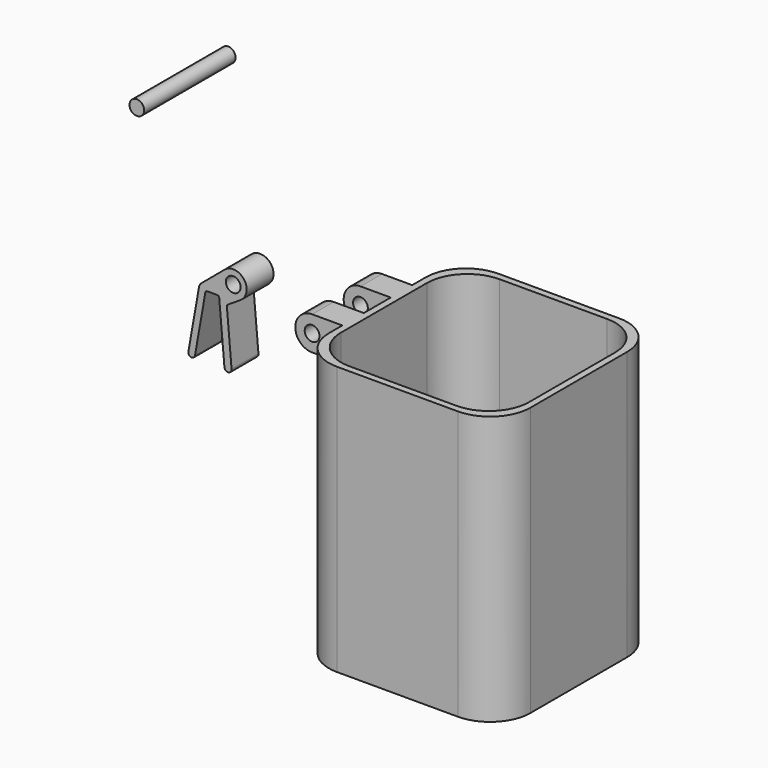
from build123d import *

# Parameters (mm, degrees)
F0_R      = 2.794
F1_DEPTH  = 12.7
F3_DEPTH  = 76.2
F4_T      = -2.54
F5_R      = 15.24
F6_R      = 15.24
F7_W      = 10.16
F7_H      = 12.7
F8_DEPTH  = 17.78
F10_DEPTH = 33.02
F9_R      = 2.794
F11_DEPTH = 33.02
F12_R     = 2.7813
F13_DEPTH = 43.18


with BuildPart() as f1:
    # F0 (on Front) → F1 (new body)
    with BuildSketch(Plane.XZ):
        with BuildLine():
            Line((-52.9557178239, -19.9272039703), (-56.9962829072, -42.842387268))
            ThreePointArc((-56.9962829072, -42.842387268), (-55.9661104361, -44.3136260292), (-54.4948716749, -43.2834535581))
            Line((-54.4948716749, -43.2834535581), (-50.5779905068, -21.0697165999))
            ThreePointArc((-50.5779905068, -21.0697165999), (-50.2876675436, -20.566862477), (-49.7420388513, -20.3682698741))
            Line((-49.7420388513, -20.3682698741), (-46.1659254268, -20.3682698741))
            ThreePointArc((-46.1659254268, -20.3682698741), (-45.5924523294, -20.5912813649), (-45.3203079908, -21.143135492))
            Line((-45.3203079908, -21.143135492), (-43.3602964284, -43.546170164))
            ThreePointArc((-43.3602964284, -43.546170164), (-41.8919443993, -44.7782638101), (-40.6598507532, -43.309911781))
            Line((-40.6598507532, -43.309911781), (-42.4765913108, -22.5444721875))
            Line((-42.4765913108, -22.5444721875), (-37.2936406402, -19.2184539172))
            ThreePointArc((-37.2936406402, -19.2184539172), (-35.9454842194, -11.9324491853), (-43.3026181586, -11.0515570864))
            Line((-43.3026181586, -11.0515570864), (-52.0869866599, -18.422517456))
            ThreePointArc((-52.0869866599, -18.422517456), (-52.6540106569, -19.0982703415), (-52.9557178239, -19.9272039703))
        make_face()
        with Locations((-40.0372571014, -14.9430628575)):
            Circle(F0_R, mode=Mode.SUBTRACT)
    extrude(amount=F1_DEPTH)


with BuildPart() as f3:
    # F2 (on Front) → F3 (new body)
    with BuildSketch(Plane.XZ):
        Polygon((34.7325472392, 7.2066777061), (34.7325472392, -88.8053222939), (110.9325472392, -88.8053222939), (110.9325472392, 12.7946777061), (34.7325472392, 12.7946777061), align=None)
    extrude(amount=F3_DEPTH)

    # F4
    f4_openings = [f3.faces().sort_by_distance(p)[0] for p in [
        (72.832547, -38.1, 12.794678),
    ]]
    offset(amount=F4_T, openings=f4_openings)

    # F5
    f5_edges = [f3.edges().sort_by_distance(p)[0] for p in [
        (37.272547, -2.54, -36.735322),
        (108.392547, -2.54, -36.735322),
        (37.272547, -73.66, -36.735322),
        (108.392547, -73.66, -36.735322),
    ]]
    fillet(f5_edges, radius=F5_R)

    # F6
    f6_edges = [f3.edges().sort_by_distance(p)[0] for p in [
        (110.932547, 0, -38.005322),
        (110.932547, -76.2, -38.005322),
        (34.732547, 0, -38.005322),
        (34.732547, -76.2, -38.005322),
    ]]
    fillet(f6_edges, radius=F6_R)

    # F7 (on face) → F8 (join)
    with BuildSketch(Plane(origin=(34.7325472392, 0, 0), x_dir=(0, -1, 0), z_dir=(-1, 0, 0))):
        with Locations((26.67, 6.4446777061)):
            Rectangle(F7_W, F7_H)
        with Locations((49.53, 6.4446777061)):
            Rectangle(F7_W, F7_H)
    extrude(amount=F8_DEPTH)

    # F9 (on face) → F10 (cut)
    with BuildSketch(Plane.XZ.offset(54.61)):
        with BuildLine():
            Line((16.9525472392, 0.0946777061), (23.3025472392, 0.0946777061))
            ThreePointArc((23.3025472392, 0.0946777061), (18.8124192105, 1.9545496137), (16.9525472392, 6.444677616))
            Line((16.9525472392, 6.444677616), (16.9525472392, 0.0946777061))
        make_face()
        with BuildLine():
            ThreePointArc((16.9525472392, 6.444677616), (18.8124191468, 10.9348057347), (23.3025472392, 12.7946777061))
            Line((23.3025472392, 12.7946777061), (16.9525472392, 12.7946777061))
            Line((16.9525472392, 12.7946777061), (16.9525472392, 6.444677616))
        make_face()
    extrude(amount=-F10_DEPTH, mode=Mode.SUBTRACT)

    # F9 (on face) → F11 (cut)
    with BuildSketch(Plane.XZ.offset(54.61)):
        with Locations((23.3025472392, 6.4446777061)):
            Circle(F9_R)
    extrude(amount=-F11_DEPTH, mode=Mode.SUBTRACT)


with BuildPart() as f13:
    # F12 (on Front) → F13 (new body)
    with BuildSketch(Plane.XZ):
        with Locations((-52.0791523159, 52.403781563)):
            Circle(F12_R)
    extrude(amount=F13_DEPTH)


solid = Compound([f1.part, f3.part, f13.part])
